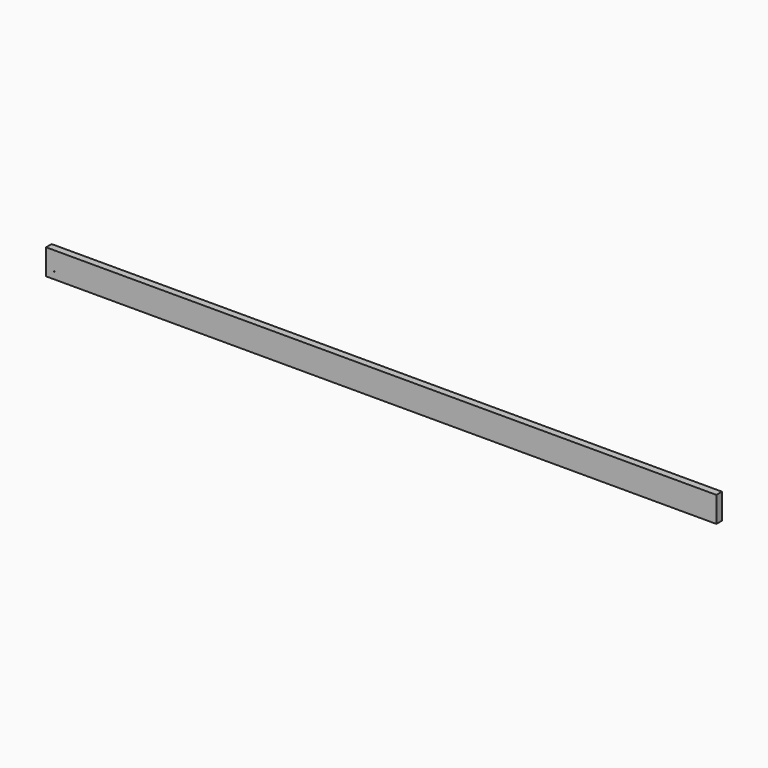
from build123d import *

# Parameters (mm, degrees)
F0_W     = 38.1
F0_H     = 139.7
F1_DEPTH = 3657.6
F2_R     = 1.5875
F3_DEPTH = 38.1


with BuildPart() as f1:
    # F0 (on Right) → F1 (new body)
    with BuildSketch(Plane.YZ):
        with Locations((19.05, 69.85)):
            Rectangle(F0_W, F0_H)
    extrude(amount=F1_DEPTH)

    # F2 (on face) → F3 (cut, through all)
    with BuildSketch(Plane.XZ):
        with Locations((44.45, 38.1)):
            Circle(F2_R)
    extrude(amount=-F3_DEPTH, mode=Mode.SUBTRACT)


solid = f1.part
